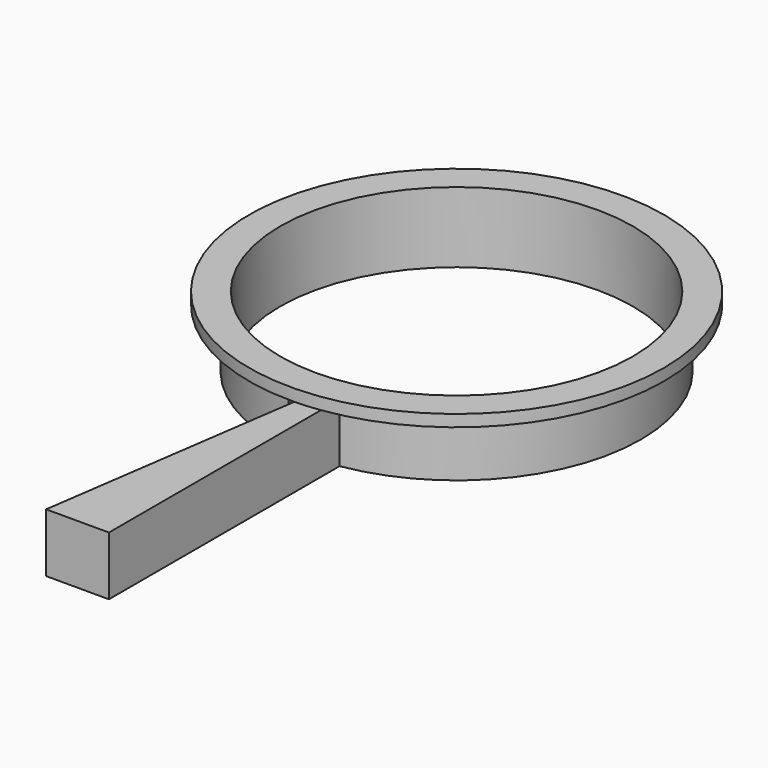
from build123d import *

# Parameters (mm, degrees)
F1_DEPTH = 10
F2_R     = 31.347396
F3_DEPTH = 10
F4_R     = 35.277865
F5_DEPTH = 2
F6_R     = 29.989336
F7_DEPTH = 25


with BuildPart() as f1:
    # F0 (on Top) → F1 (new body)
    with BuildSketch(Plane.XY):
        Polygon((0, 0), (-10.077596, 0), (-4.275343, -5.802252), (-10.688359, -50.387979), (0, -50.387979), align=None)
    extrude(amount=-F1_DEPTH)

    # F2 (on Top) → F3 (join)
    with BuildSketch(Plane.XY):
        with Locations((-4.886107, 29.622024)):
            Circle(F2_R)
    extrude(amount=-F3_DEPTH)

    # F4 (on face) → F5 (join)
    with BuildSketch(Plane.XY):
        with Locations((-4.886107, 29.622024)):
            Circle(F4_R)
    extrude(amount=F5_DEPTH)

    # F6 (on face) → F7 (cut)
    with BuildSketch(Plane.XY.offset(2)):
        with Locations((-4.886107, 29.622024)):
            Circle(F6_R)
    extrude(amount=-F7_DEPTH, mode=Mode.SUBTRACT)


solid = f1.part
